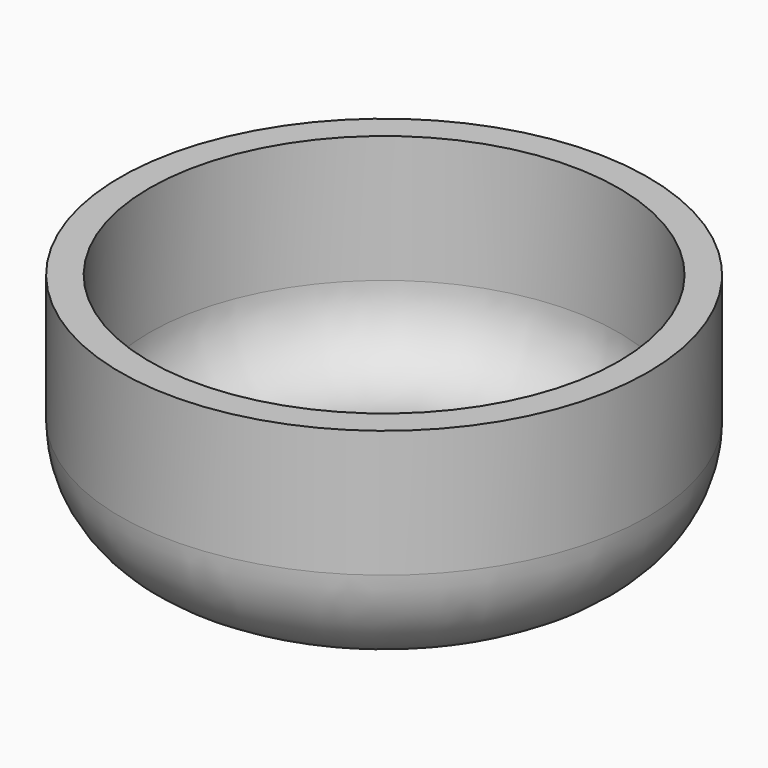
from build123d import *


with BuildPart() as f1:
    # F0 (on Front) → F1 (revolve)
    with BuildSketch(Plane.XZ):
        with BuildLine():
            Line((0, 1.5875), (0, 0))
            Line((0, 0), (8.466667, 0))
            ThreePointArc((8.466667, 0), (12.582617, 1.704883), (14.2875, 5.820833))
            Line((14.2875, 5.820833), (14.2875, 12.7))
            Line((14.2875, 12.7), (12.7, 12.7))
            Line((12.7, 12.7), (12.7, 5.820833))
            ThreePointArc((12.7, 5.820833), (11.460085, 2.827415), (8.466667, 1.5875))
            Line((8.466667, 1.5875), (3.175, 1.5875))
            Line((3.175, 1.5875), (0, 1.5875))
        make_face()
        with BuildLine():
            Line((0, 4.7625), (0, 1.5875))
            Line((0, 1.5875), (3.175, 1.5875))
            ThreePointArc((3.175, 1.5875), (2.245064, 3.832564), (0, 4.7625))
        make_face()
    revolve(axis=Axis((0, 0, 6.35), (0, 0, 1)))


solid = f1.part
